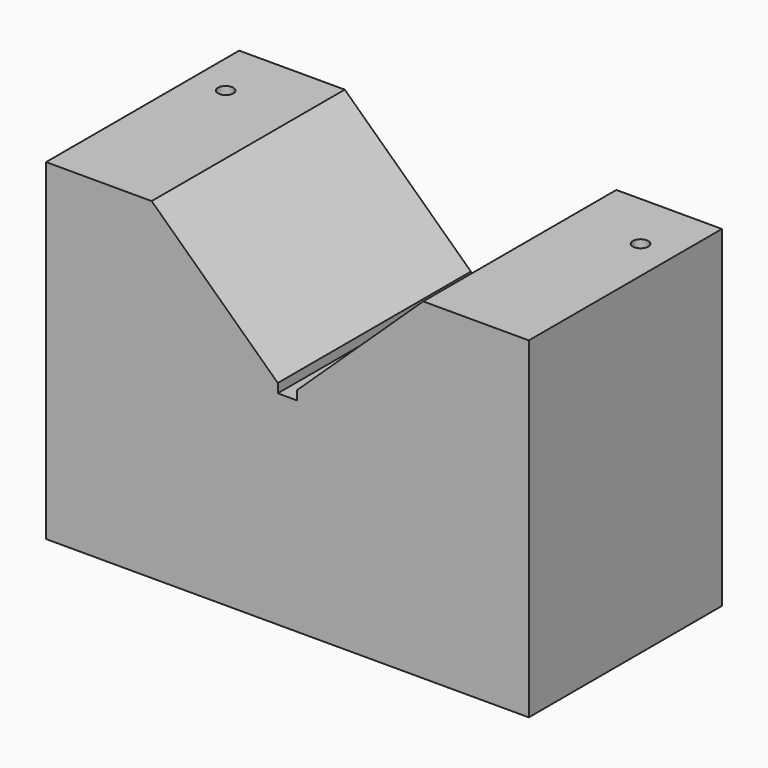
from build123d import *

# Parameters (mm, degrees)
F0_W     = 203.2
F0_H     = 139.7
F1_DEPTH = 50.8
F3_DEPTH = 101.601
F5_DEPTH = 101.601
F6_R     = 3.2385
F7_DEPTH = 23.8125


with BuildPart() as f1:
    # F0 (on Front) → F1 (new body, symmetric)
    with BuildSketch(Plane.XZ):
        with Locations((0, 69.85)):
            Rectangle(F0_W, F0_H)
    extrude(amount=F1_DEPTH, both=True)

    # F2 (on face) → F3 (cut, through all)
    with BuildSketch(Plane.XZ.offset(50.8)):
        Polygon((57.15, 139.7), (0, 139.7), (0, 85.725), align=None)
        Polygon((0, 85.725), (0, 139.7), (-57.15, 139.7), align=None)
    extrude(amount=-F3_DEPTH, mode=Mode.SUBTRACT)

    # F4 (on face) → F5 (cut, through all)
    with BuildSketch(Plane.XZ.offset(50.8)):
        Polygon((-4.064, 90.043), (-4.064, 85.725), (4.064, 85.725), (4.064, 90.043), (0, 90.043), align=None)
    extrude(amount=-F5_DEPTH, mode=Mode.SUBTRACT)

    # F6 (on face) → F7 (cut)
    with BuildSketch(Plane.XY.offset(139.7)):
        with Locations((-87.3125, 25.8445)):
            Circle(F6_R)
        with Locations((87.3125, 25.8445)):
            Circle(F6_R)
    extrude(amount=-F7_DEPTH, mode=Mode.SUBTRACT)


solid = f1.part
